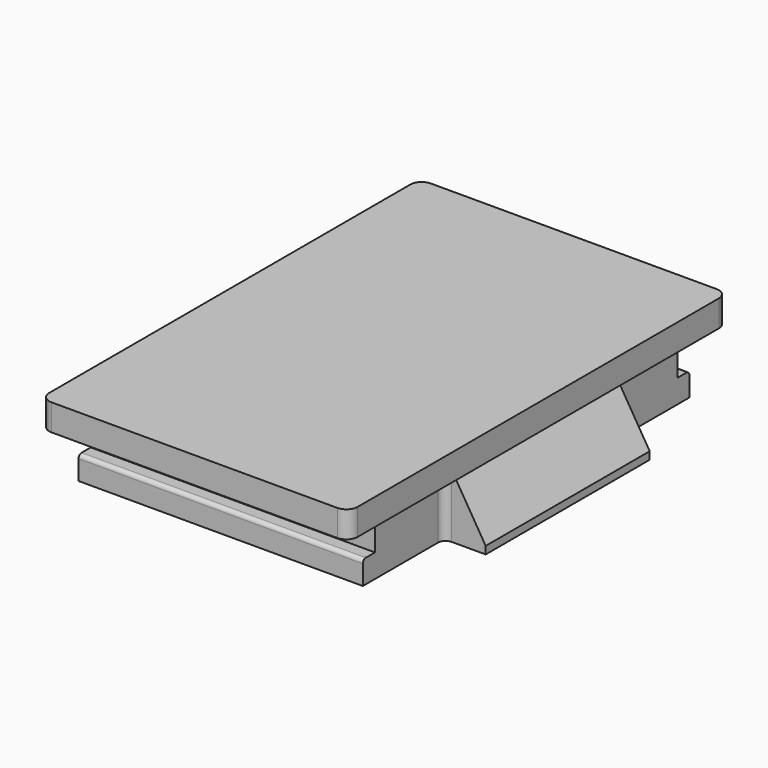
from build123d import *

# Parameters (mm, degrees)
F1_DEPTH      = 4.445
F2_W          = 47.752
F2_H          = 63.5
F3_DEPTH      = 9.398
F5_DEPTH      = 47.752
F7_DEPTH      = 17.2212
F7_DEPTH_BACK = 17.2212
F8_R          = 1.27


with BuildPart() as f1:
    # F0 (on Top) → F1 (new body)
    with BuildSketch(Plane.XY):
        with BuildLine():
            Line((-24.003, -39.8145), (24.003, -39.8145))
            ThreePointArc((24.003, -39.8145), (25.350038, -39.256538), (25.908, -37.9095))
            Line((25.908, -37.9095), (25.908, 37.9095))
            ThreePointArc((25.908, 37.9095), (25.350038, 39.256538), (24.003, 39.8145))
            Line((24.003, 39.8145), (-24.003, 39.8145))
            ThreePointArc((-24.003, 39.8145), (-25.350038, 39.256538), (-25.908, 37.9095))
            Line((-25.908, 37.9095), (-25.908, -37.9095))
            ThreePointArc((-25.908, -37.9095), (-25.350038, -39.256538), (-24.003, -39.8145))
        make_face()
    extrude(amount=F1_DEPTH)

    # F2 (on face) → F3 (join)
    with BuildSketch(Plane(origin=(0, 0, 0), x_dir=(1, 0, 0), z_dir=(0, 0, -1))):
        Rectangle(F2_W, F2_H)
    extrude(amount=F3_DEPTH)

    # F4 (on face) → F5 (join, through all)
    with BuildSketch(Plane(origin=(-23.876, 0, 0), x_dir=(0, -1, 0), z_dir=(-1, 0, 0))):
        with BuildLine():
            Line((-34.29, -9.398), (-31.75, -9.398))
            Line((-31.75, -9.398), (-31.75, -5.461))
            Line((-31.75, -5.461), (-33.655, -5.461))
            ThreePointArc((-33.655, -5.461), (-34.104013, -5.646987), (-34.29, -6.096))
            Line((-34.29, -6.096), (-34.29, -9.398))
        make_face()
        with BuildLine():
            ThreePointArc((34.29, -6.096), (34.104013, -5.646987), (33.655, -5.461))
            Line((33.655, -5.461), (31.75, -5.461))
            Line((31.75, -5.461), (31.75, -9.398))
            Line((31.75, -9.398), (34.29, -9.398))
            Line((34.29, -9.398), (34.29, -6.096))
        make_face()
    extrude(amount=-F5_DEPTH)

    # F6 (on Front) → F7 (join, two sides)
    with BuildSketch(Plane.XZ) as f7_sk:
        Polygon((-30.861, -9.398), (-23.876, -9.398), (-23.876, 0), (-25.908, 0), (-30.861, -8.128), align=None)
        Polygon((30.861, -9.398), (30.861, -8.128), (25.908, 0), (23.876, 0), (23.876, -9.398), align=None)
    extrude(amount=F7_DEPTH)
    extrude(f7_sk.sketch, amount=-F7_DEPTH_BACK)

    # F8
    f8_edges = [f1.edges().sort_by_distance(p)[0] for p in [
        (23.876, -17.2212, -4.699),
        (23.876, 17.2212, -4.699),
        (-23.876, 17.2212, -4.699),
        (-23.876, -17.2212, -4.699),
    ]]
    fillet(f8_edges, radius=F8_R)


solid = f1.part
